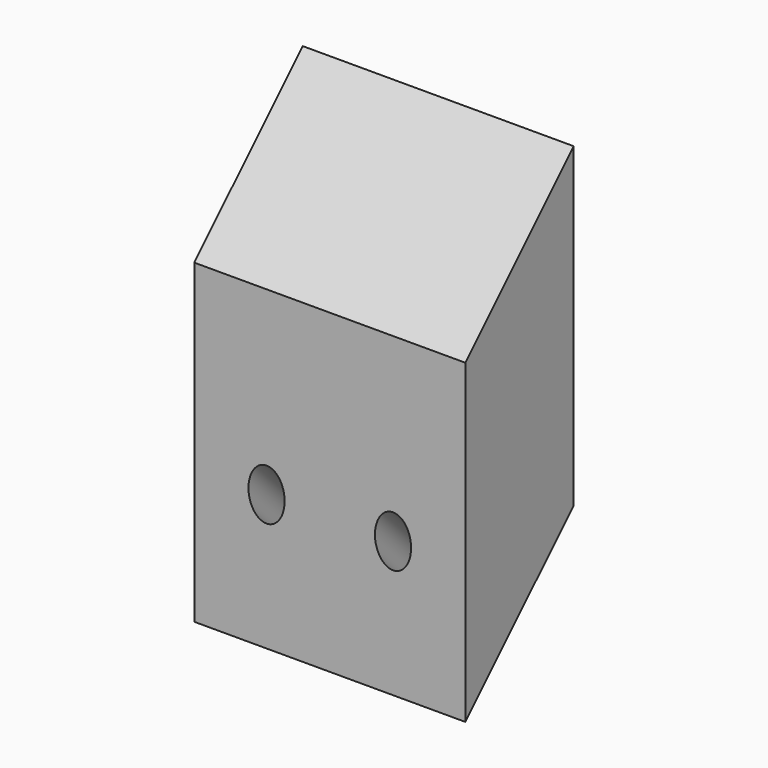
from build123d import *

# Parameters (mm, degrees)
F0_W     = 30
F0_H     = 15
F1_DEPTH = 50
F3_DEPTH = 30.001
F5_D     = 4


with BuildPart() as f1:
    # F0 (on Top) → F1 (new body)
    with BuildSketch(Plane.XY):
        with Locations((-23.119991, 11.377853)):
            Rectangle(F0_W, F0_H)
    extrude(amount=F1_DEPTH)

    # F2 (on face) → F3 (cut, through all)
    with BuildSketch(Plane(origin=(-38.119991, 0, 0), x_dir=(0, -1, 0), z_dir=(-1, 0, 0))):
        Polygon((-3.877853, 50), (-18.877853, 50), (-3.877853, 35), align=None)
        Polygon((-3.877853, 0), (-18.877853, 15), (-18.877853, 0), align=None)
    extrude(amount=-F3_DEPTH, mode=Mode.SUBTRACT)

    # F5 (through all)
    with Locations(Plane(origin=(0, 1.938926, -1.938926), x_dir=(-1, 0, 0), z_dir=(0, 0.707107, -0.707107))):
        with Locations((30.119991, 13.348658), (16.119991, 13.348658)):
            Hole(F5_D / 2)


solid = f1.part
